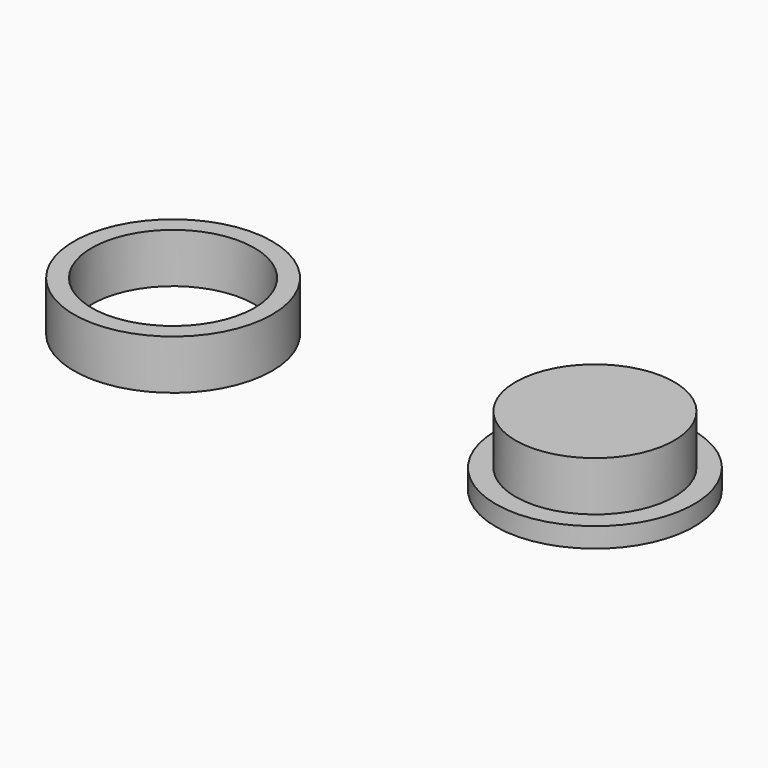
from build123d import *

# Parameters (mm, degrees)
F2_R     = 10
F2_R_2   = 8.2
F3_DEPTH = 5


with BuildPart() as f1:
    # F0 (on Front) → F1 (revolve)
    with BuildSketch(Plane.XZ):
        Polygon((-10, 0), (0, 0), (0, 7), (-8, 7), (-8, 2), (-10, 2), align=None)
    revolve(axis=Axis((0, 0, 3.5), (0, 0, -1)))


with BuildPart() as f3:
    # F2 (on Top) → F3 (new body)
    with BuildSketch(Plane.XY):
        with Locations((-42.54299, 0)):
            Circle(F2_R)
        with Locations((-42.54299, 0)):
            Circle(F2_R_2, mode=Mode.SUBTRACT)
    extrude(amount=F3_DEPTH)


solid = Compound([f1.part, f3.part])
